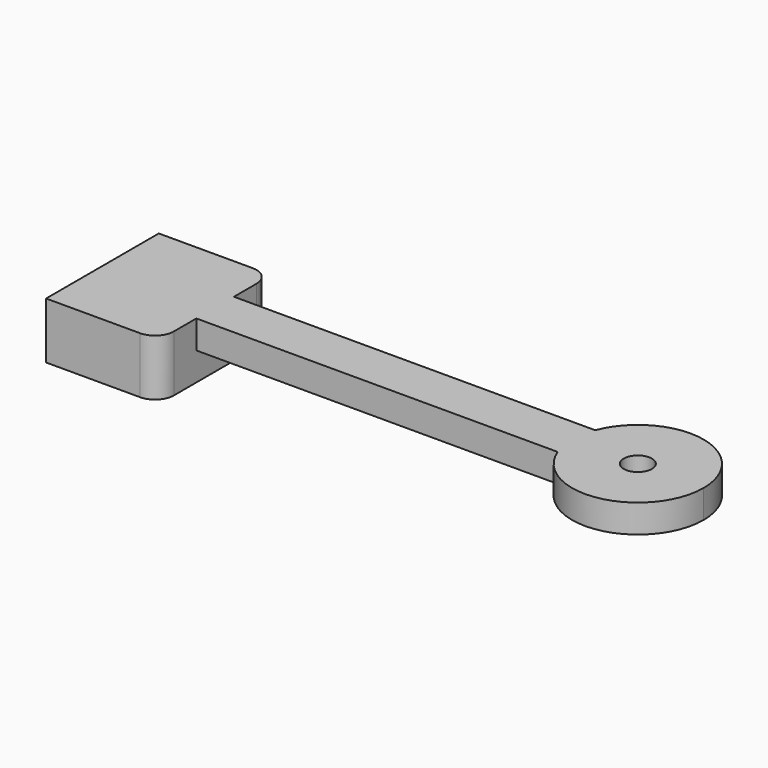
from build123d import *

# Parameters (mm, degrees)
F0_W      = 60
F0_H      = 5
F1_DEPTH  = 3
F2_W      = 15
F2_H      = 5
F3_DEPTH  = 6
F4_R      = 5.25
F5_DEPTH  = 5
F6_DEPTH  = 3
F8_DEPTH  = 3
F9_R      = 1.5
F10_DEPTH = 25
F11_R     = 2


with BuildPart() as f1:
    # F0 (on Top) → F1 (new body)
    with BuildSketch(Plane.XY):
        Rectangle(F0_W, F0_H)
    extrude(amount=F1_DEPTH)

    # F2 (on face) → F3 (join)
    with BuildSketch(Plane.XY.offset(3)):
        with Locations((-22.5, 5)):
            Rectangle(F2_W, F2_H)
        with Locations((-22.5, 0)):
            Rectangle(F2_W, F2_H)
        with Locations((-22.5, -5)):
            Rectangle(F2_W, F2_H)
    extrude(amount=-F3_DEPTH)

    # F4 (on face) → F5 (cut)
    with BuildSketch(Plane(origin=(0, 0, -3), x_dir=(1, 0, 0), z_dir=(0, 0, -1))):
        with Locations((-22.5, 0)):
            Circle(F4_R)
    extrude(amount=-F5_DEPTH, mode=Mode.SUBTRACT)

    # F6 (cut): a face of the model
    f6_faces = [f1.faces().sort_by_distance(p)[0] for p in [
        (-30, 0, 0),
    ]]
    extrude(f6_faces, amount=-F6_DEPTH, mode=Mode.SUBTRACT)

    # F7 (on face) → F8 (join)
    with BuildSketch(Plane(origin=(0, 0, 0), x_dir=(1, 0, 0), z_dir=(0, 0, -1))):
        with BuildLine():
            ThreePointArc((23.4616515847, -2.5), (31.2711335675, -6.8836196477), (37, 0))
            ThreePointArc((37, 0), (31.2711335675, 6.8836196477), (23.4616515847, 2.5))
            Line((23.4616515847, 2.5), (30, 2.5))
            Line((30, 2.5), (30, -2.5))
            Line((30, -2.5), (23.4616515847, -2.5))
        make_face()
        with BuildLine():
            Line((30, 2.5), (23.4616515847, 2.5))
            ThreePointArc((23.4616515847, 2.5), (23, 0), (23.4616515847, -2.5))
            Line((23.4616515847, -2.5), (30, -2.5))
            Line((30, -2.5), (30, 2.5))
        make_face()
    extrude(amount=-F8_DEPTH)

    # F9 (on face) → F10 (cut)
    with BuildSketch(Plane(origin=(0, 0, 0), x_dir=(1, 0, 0), z_dir=(0, 0, -1))):
        with Locations((30, 0)):
            Circle(F9_R)
    extrude(amount=-F10_DEPTH, mode=Mode.SUBTRACT)

    # F11
    f11_edges = [f1.edges().sort_by_distance(p)[0] for p in [
        (-15, -7.5, 0),
        (-15, 7.5, 0),
    ]]
    fillet(f11_edges, radius=F11_R)


solid = f1.part
